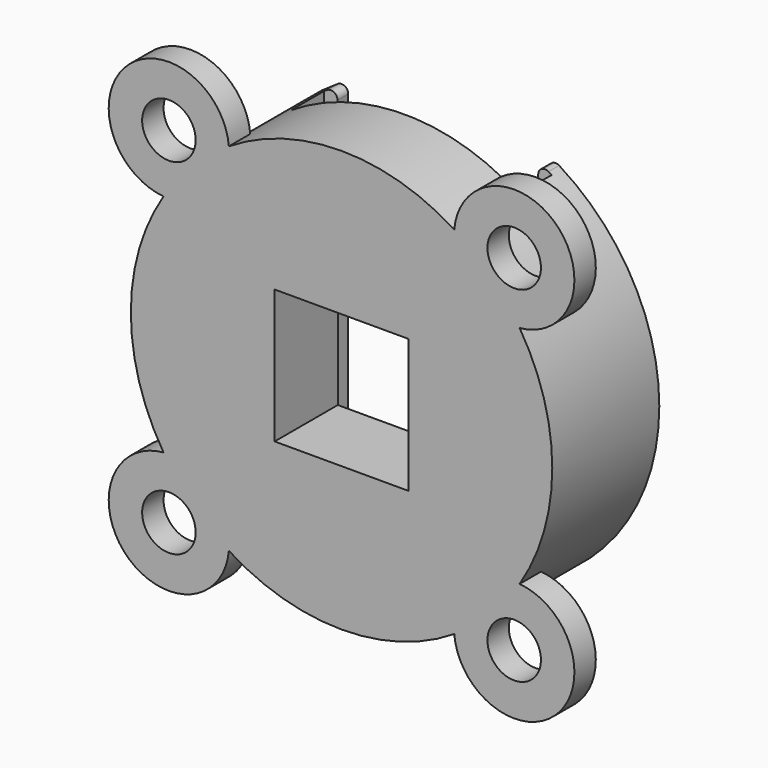
from build123d import *

# Parameters (mm, degrees)
CYLINDER008_R         = 15.75
CYLINDER008_DEPTH     = 10
CYLINDER009_R         = 4.5
CYLINDER009_DEPTH     = 2
POLARPATTERN002_COUNT = 4
CYLINDER010_R         = 2
CYLINDER010_DEPTH     = 2
POLARPATTERN003_COUNT = 4
BOX001_W              = 10
BOX001_H              = 10
BOX001_DEPTH          = 10
BOX003_W              = 32.5
BOX003_H              = 17
BOX003_DEPTH          = 3.1
BOX004_W              = 32.5
BOX004_H              = 15
BOX004_DEPTH          = 1
FILLET005_R           = 0.5


with BuildPart() as part:
    # Cylinder008 → Cylinder008 (join)
    with BuildSketch(Plane(origin=(0, 0, 0), x_dir=(-1, 0, 0), z_dir=(0, 1, 0))):
        Circle(CYLINDER008_R)
    extrude(amount=CYLINDER008_DEPTH)

    # Cylinder009 → Cylinder009 (join)
    with BuildSketch(Plane(origin=(12.904699, 0, -12.904699), x_dir=(0, 0, -1), z_dir=(0, 1, 0))):
        Circle(CYLINDER009_R)
    cylinder009 = extrude(amount=CYLINDER009_DEPTH)

    # PolarPattern002: Cylinder009 ×4 about axis
    polarpattern002_axis = Axis((0, 0, 0), (0, 1, 0))
    for i in range(1, POLARPATTERN002_COUNT):
        add(cylinder009.rotate(polarpattern002_axis, i * 360 / POLARPATTERN002_COUNT))

    # Cylinder010 → Cylinder010 (cut)
    with BuildSketch(Plane(origin=(12.904699, 0, 12.904699), x_dir=(0, 0, -1), z_dir=(0, 1, 0))):
        Circle(CYLINDER010_R)
    cylinder010 = extrude(amount=CYLINDER010_DEPTH, mode=Mode.SUBTRACT)

    # PolarPattern003: Cylinder010 ×4 about axis
    polarpattern003_axis = Axis((0, 0, 0), (0, 1, 0))
    for i in range(1, POLARPATTERN003_COUNT):
        add(cylinder010.rotate(polarpattern003_axis, i * 360 / POLARPATTERN003_COUNT), mode=Mode.SUBTRACT)

    # Box001 → Box001 (cut)
    with BuildSketch(Plane(origin=(5, 0, -5), x_dir=(-1, 0, 0), z_dir=(0, 1, 0))):
        with Locations((5, 5)):
            Rectangle(BOX001_W, BOX001_H)
    extrude(amount=BOX001_DEPTH, mode=Mode.SUBTRACT)

    # Box003 → Box003 (cut)
    with BuildSketch(Plane(origin=(-8.5, 9, 16.25), x_dir=(0, 0, -1), z_dir=(0, -1, 0))):
        with Locations((16.25, 8.5)):
            Rectangle(BOX003_W, BOX003_H)
    extrude(amount=BOX003_DEPTH, mode=Mode.SUBTRACT)

    # Box004 → Box004 (cut)
    with BuildSketch(Plane(origin=(-7.5, 10, 16.25), x_dir=(0, 0, -1), z_dir=(0, -1, 0))):
        with Locations((16.25, 7.5)):
            Rectangle(BOX004_W, BOX004_H)
    extrude(amount=BOX004_DEPTH, mode=Mode.SUBTRACT)

    # Fillet005
    fillet005_edges = [part.edges().sort_by_distance(p)[0] for p in [
        (-7.5, 9.5, -13.849639),
        (7.5, 9.5, 13.849639),
        (-7.5, 9.5, 13.849639),
        (7.5, 9.5, -13.849639),
    ]]
    fillet(fillet005_edges, radius=FILLET005_R)


solid = part.part
